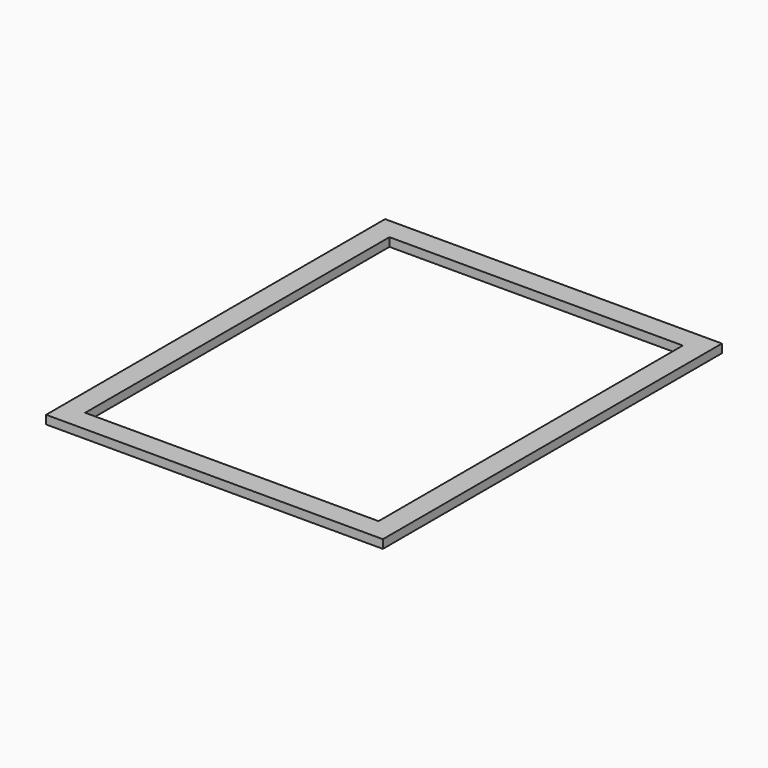
from build123d import *

# Parameters (mm, degrees)
F0_W     = 171.45
F0_H     = 222.25
F0_W_2   = 196.85
F0_H_2   = 247.65
F1_DEPTH = 5
F2_DEPTH = 5


with BuildPart() as f1:
    # F0 (on Top) → F1 (new body)
    with BuildSketch(Plane.XY):
        with Locations((-0.027822, 21.024953)):
            Rectangle(F0_W, F0_H)
        with Locations((-0.027822, 21.024953)):
            Rectangle(F0_W_2, F0_H_2)
        with Locations((-0.027822, 21.024953)):
            Rectangle(F0_W, F0_H, mode=Mode.SUBTRACT)
    extrude(amount=F1_DEPTH)

    # F0 (on Top) → F2 (cut)
    with BuildSketch(Plane.XY):
        with Locations((-0.027822, 21.024953)):
            Rectangle(F0_W, F0_H)
    extrude(amount=F2_DEPTH, mode=Mode.SUBTRACT)


solid = f1.part
